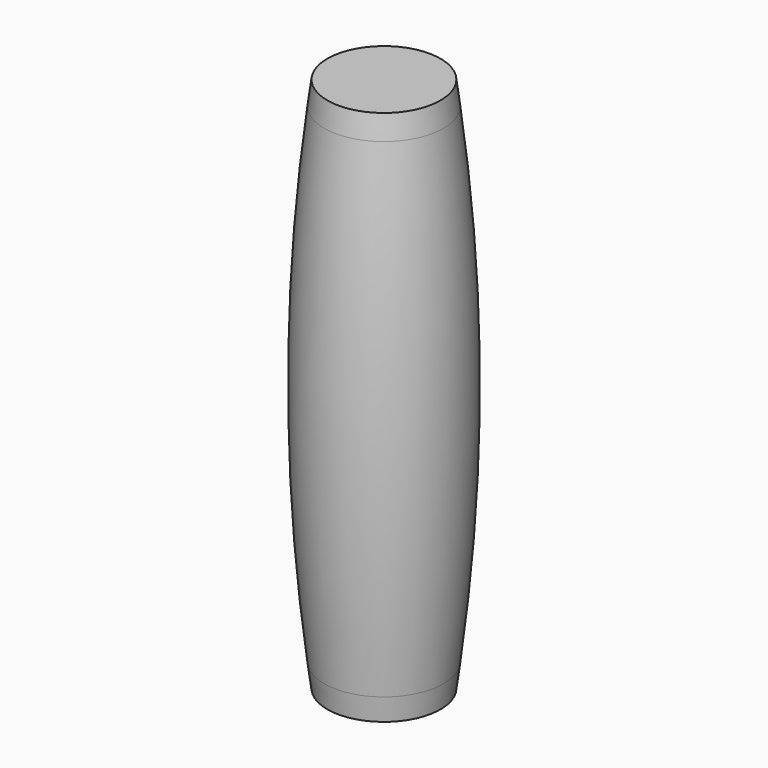
from build123d import *


with BuildPart() as f1:
    # F0 (on Front) → F1 (revolve)
    with BuildSketch(Plane.XZ):
        with BuildLine():
            Line((-8.020753, 41.031733), (-10.020737, 41.039646))
            ThreePointArc((-10.020737, 41.039646), (-12.582579, 0), (-10.020737, -41.039646))
            Line((-10.020737, -41.039646), (-8.020753, -41.031733))
            Line((-8.020753, -41.031733), (-6.8, -41.031733))
            Line((-6.8, -41.031733), (-6.8, -35))
            ThreePointArc((-6.8, -35), (-6.67988, -33.727522), (-6.323765, -32.5))
            Line((-6.323765, -32.5), (-9.890868, -26.114616))
            ThreePointArc((-9.890868, -26.114616), (-11.156749, 0), (-9.890868, 26.114616))
            Line((-9.890868, 26.114616), (-6.323765, 32.5))
            ThreePointArc((-6.323765, 32.5), (-6.67988, 33.727522), (-6.8, 35))
            Line((-6.8, 35), (-6.8, 38))
            Line((-6.8, 38), (-6.8, 41.031733))
            Line((-6.8, 41.031733), (-8.020753, 41.031733))
        make_face()
    revolve(axis=Axis((0, 0, 43.4), (0, 0, 1)))


with BuildPart() as f2:
    # F0 (on Front) → F2 (revolve)
    with BuildSketch(Plane.XZ):
        with BuildLine():
            Line((0, 41.8), (0, 45))
            Line((0, 45), (-9.5, 45))
            ThreePointArc((-9.5, 45), (-9.766361, 43.020611), (-10.020737, 41.039646))
            Line((-10.020737, 41.039646), (-8.020753, 41.031733))
            Line((-8.020753, 41.031733), (-6.8, 41.031733))
            Line((-6.8, 41.031733), (-6.8, 38))
            Line((-6.8, 38), (-6.102459, 38))
            ThreePointArc((-6.102459, 38), (-3.59444, 40.772348), (0, 41.8))
        make_face()
    revolve(axis=Axis((0, 0, 43.4), (0, 0, 1)))


with BuildPart() as f3_1:
    # F3: instance of F2
    add(f2.part.mirror(Plane.XY))


solid = Compound([f1.part, f2.part, f3_1.part])
